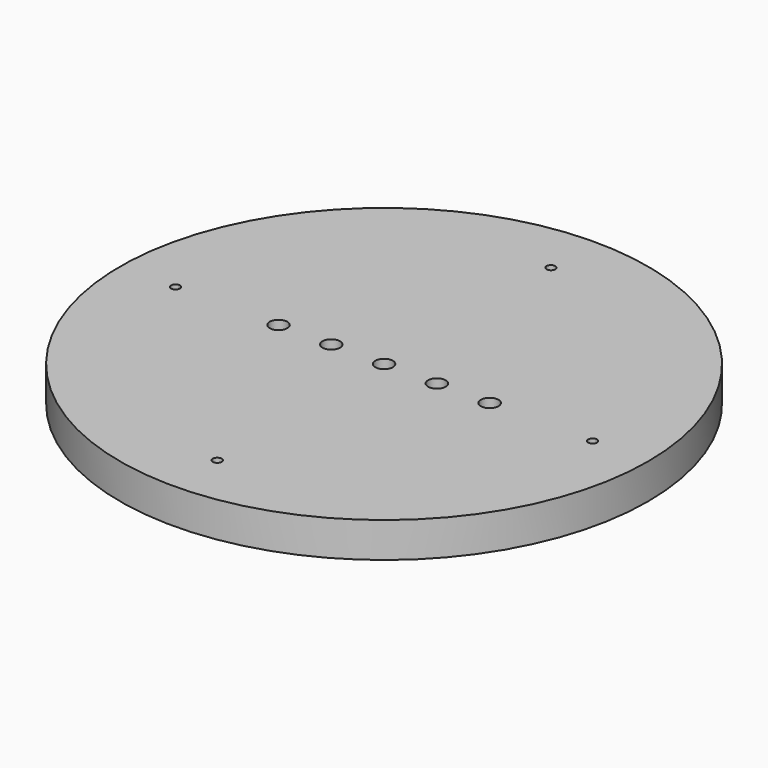
from build123d import *

# Parameters (mm, degrees)
F0_R     = 150
F1_DEPTH = 20
F3_DEPTH = 20.001
F4_R     = 5
F5_DEPTH = 20.001


with BuildPart() as f1:
    # F0 (on Top) → F1 (new body)
    with BuildSketch(Plane.XY):
        Circle(F0_R)
    extrude(amount=F1_DEPTH)

    # F2 (on face) → F3 (cut, through all)
    with BuildSketch(Plane.XY.offset(20)):
        with BuildLine():
            ThreePointArc((-2.499860907, 118.473628692), (0, 118.5), (2.499860907, 118.473628692))
            ThreePointArc((2.499860907, 118.473628692), (2.4999652265, 118.4868141626), (2.5, 118.5))
            ThreePointArc((2.5, 118.5), (-0.0131858374, 120.9999652265), (-2.499860907, 118.473628692))
        make_face()
        with BuildLine():
            ThreePointArc((-2.499860907, 118.473628692), (0, 116), (2.499860907, 118.473628692))
            ThreePointArc((2.499860907, 118.473628692), (0, 118.5), (-2.499860907, 118.473628692))
        make_face()
        with BuildLine():
            ThreePointArc((-118.473628692, -2.499860907), (-118.5, 0), (-118.473628692, 2.499860907))
            ThreePointArc((-118.473628692, 2.499860907), (-121, 0), (-118.473628692, -2.499860907))
        make_face()
        with BuildLine():
            ThreePointArc((-116, 0), (-116.7229338406, 1.7584185693), (-118.473628692, 2.499860907))
            ThreePointArc((-118.473628692, 2.499860907), (-118.5, 0), (-118.473628692, -2.499860907))
            ThreePointArc((-118.473628692, -2.499860907), (-116.7229338406, -1.7584185693), (-116, 0))
        make_face()
        with BuildLine():
            ThreePointArc((118.473628692, -2.499860907), (118.4934069896, -1.25), (118.5, 0))
            ThreePointArc((118.5, 0), (118.4934069896, 1.25), (118.473628692, 2.499860907))
            ThreePointArc((118.473628692, 2.499860907), (116, 0), (118.473628692, -2.499860907))
        make_face()
        with BuildLine():
            ThreePointArc((118.473628692, 2.499860907), (118.4934069896, 1.25), (118.5, 0))
            ThreePointArc((118.5, 0), (118.4934069896, -1.25), (118.473628692, -2.499860907))
            ThreePointArc((118.473628692, -2.499860907), (120.2584185693, -1.7770661594), (121, 0))
            ThreePointArc((121, 0), (120.2584185693, 1.7770661594), (118.473628692, 2.499860907))
        make_face()
        with BuildLine():
            ThreePointArc((-2.499860907, -118.473628692), (0, -118.5), (2.499860907, -118.473628692))
            ThreePointArc((2.499860907, -118.473628692), (0, -116), (-2.499860907, -118.473628692))
        make_face()
        with BuildLine():
            ThreePointArc((2.5, -118.5), (2.4999652265, -118.4868141626), (2.499860907, -118.473628692))
            ThreePointArc((2.499860907, -118.473628692), (0, -118.5), (-2.499860907, -118.473628692))
            ThreePointArc((-2.499860907, -118.473628692), (-0.0131858374, -120.9999652265), (2.5, -118.5))
        make_face()
    extrude(amount=-F3_DEPTH, mode=Mode.SUBTRACT)

    # F4 (on face) → F5 (cut, through all)
    with BuildSketch(Plane.XY.offset(20)):
        Circle(F4_R)
        with Locations((30, 0)):
            Circle(F4_R)
        with Locations((60, 0)):
            Circle(F4_R)
        with Locations((-30, 0)):
            Circle(F4_R)
        with Locations((-60, 0)):
            Circle(F4_R)
    extrude(amount=-F5_DEPTH, mode=Mode.SUBTRACT)


solid = f1.part
